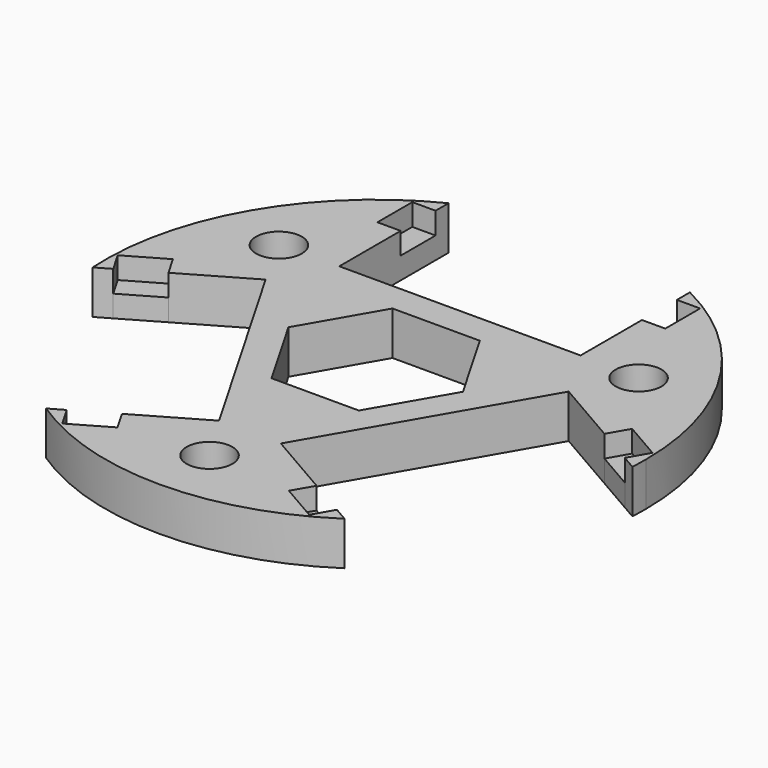
from build123d import *

# Parameters (mm, degrees)
F1_DEPTH = 3.81
F0_W     = 2.032
F0_H     = 3.81
F2_DEPTH = 1.905
F3_D     = 4


with BuildPart() as f1:
    # F0 (on Top) → F1 (new body)
    with BuildSketch(Plane.XY):
        with BuildLine():
            ThreePointArc((23.2712226898, 27.3948570229), (23.3042181614, 28.1150551719), (23.315220068, 28.8359248085))
            ThreePointArc((23.315220068, 28.8359248085), (19.7805094073, 41.2657152733), (10.234220068, 49.9756079424))
            Line((10.234220068, 49.9756079424), (10.234220068, 48.5526951571))
            Line((10.234220068, 48.5526951571), (12.266220068, 48.5526951571))
            Line((12.266220068, 48.5526951571), (12.266220068, 44.7426951571))
            Line((12.266220068, 44.7426951571), (10.234220068, 44.7426951571))
            Line((10.234220068, 44.7426951571), (10.234220068, 38.0376079424))
            Line((10.234220068, 38.0376079424), (-10.847779932, 38.0376079424))
            Line((-10.847779932, 38.0376079424), (-10.847779932, 44.7426951571))
            Line((-10.847779932, 44.7426951571), (-12.879779932, 44.7426951571))
            Line((-12.879779932, 44.7426951571), (-12.879779932, 48.5526951571))
            Line((-12.879779932, 48.5526951571), (-10.847779932, 48.5526951571))
            Line((-10.847779932, 48.5526951571), (-10.847779932, 49.9756079424))
            ThreePointArc((-10.847779932, 49.9756079424), (-20.7640320202, 40.6469248085), (-23.8847825539, 27.3948570229))
            Line((-23.8847825539, 27.3948570229), (-22.6525039345, 28.1063134155))
            Line((-22.6525039345, 28.1063134155), (-23.6685039345, 29.866077036))
            Line((-23.6685039345, 29.866077036), (-20.3689471461, 31.771077036))
            Line((-20.3689471461, 31.771077036), (-19.3529471461, 30.0113134155))
            Line((-19.3529471461, 30.0113134155), (-13.5461712835, 33.3638570229))
            Line((-13.5461712835, 33.3638570229), (-3.0051712835, 15.1063094603))
            Line((-3.0051712835, 15.1063094603), (-8.8119471461, 11.7537658529))
            Line((-8.8119471461, 11.7537658529), (-7.7959471461, 9.9940022324))
            Line((-7.7959471461, 9.9940022324), (-11.0955039345, 8.0890022324))
            Line((-11.0955039345, 8.0890022324), (-12.1115039345, 9.8487658529))
            Line((-12.1115039345, 9.8487658529), (-13.3437825539, 9.1373094603))
            ThreePointArc((-13.3437825539, 9.1373094603), (-0.306779932, 5.2139248085), (12.7302226898, 9.1373094603))
            Line((12.7302226898, 9.1373094603), (11.4979440704, 9.8487658529))
            Line((11.4979440704, 9.8487658529), (10.4819440704, 8.0890022324))
            Line((10.4819440704, 8.0890022324), (7.182387282, 9.9940022324))
            Line((7.182387282, 9.9940022324), (8.198387282, 11.7537658529))
            Line((8.198387282, 11.7537658529), (2.3916114195, 15.1063094603))
            Line((2.3916114195, 15.1063094603), (12.9326114195, 33.3638570229))
            Line((12.9326114195, 33.3638570229), (18.739387282, 30.0113134155))
            Line((18.739387282, 30.0113134155), (19.755387282, 31.771077036))
            Line((19.755387282, 31.771077036), (23.0549440704, 29.866077036))
            Line((23.0549440704, 29.866077036), (22.0389440704, 28.1063134155))
            Line((22.0389440704, 28.1063134155), (23.2712226898, 27.3948570229))
        make_face()
        Polygon((-7.9324222875, 28.8359248085), (-4.1196011098, 35.4399248085), (3.5060412457, 35.4399248085), (7.3188624234, 28.8359248085), (3.5060412457, 22.2319248085), (-4.1196011098, 22.2319248085), align=None, mode=Mode.SUBTRACT)
    extrude(amount=F1_DEPTH)

    # F0 (on Top) → F2 (join)
    with BuildSketch(Plane.XY):
        with BuildLine():
            ThreePointArc((23.2712226898, 27.3948570229), (23.3042181614, 28.1150551719), (23.315220068, 28.8359248085))
            ThreePointArc((23.315220068, 28.8359248085), (19.7805094073, 41.2657152733), (10.234220068, 49.9756079424))
            Line((10.234220068, 49.9756079424), (10.234220068, 48.5526951571))
            Line((10.234220068, 48.5526951571), (12.266220068, 48.5526951571))
            Line((12.266220068, 48.5526951571), (12.266220068, 44.7426951571))
            Line((12.266220068, 44.7426951571), (10.234220068, 44.7426951571))
            Line((10.234220068, 44.7426951571), (10.234220068, 38.0376079424))
            Line((10.234220068, 38.0376079424), (-10.847779932, 38.0376079424))
            Line((-10.847779932, 38.0376079424), (-10.847779932, 44.7426951571))
            Line((-10.847779932, 44.7426951571), (-12.879779932, 44.7426951571))
            Line((-12.879779932, 44.7426951571), (-12.879779932, 48.5526951571))
            Line((-12.879779932, 48.5526951571), (-10.847779932, 48.5526951571))
            Line((-10.847779932, 48.5526951571), (-10.847779932, 49.9756079424))
            ThreePointArc((-10.847779932, 49.9756079424), (-20.7640320202, 40.6469248085), (-23.8847825539, 27.3948570229))
            Line((-23.8847825539, 27.3948570229), (-22.6525039345, 28.1063134155))
            Line((-22.6525039345, 28.1063134155), (-23.6685039345, 29.866077036))
            Line((-23.6685039345, 29.866077036), (-20.3689471461, 31.771077036))
            Line((-20.3689471461, 31.771077036), (-19.3529471461, 30.0113134155))
            Line((-19.3529471461, 30.0113134155), (-13.5461712835, 33.3638570229))
            Line((-13.5461712835, 33.3638570229), (-3.0051712835, 15.1063094603))
            Line((-3.0051712835, 15.1063094603), (-8.8119471461, 11.7537658529))
            Line((-8.8119471461, 11.7537658529), (-7.7959471461, 9.9940022324))
            Line((-7.7959471461, 9.9940022324), (-11.0955039345, 8.0890022324))
            Line((-11.0955039345, 8.0890022324), (-12.1115039345, 9.8487658529))
            Line((-12.1115039345, 9.8487658529), (-13.3437825539, 9.1373094603))
            ThreePointArc((-13.3437825539, 9.1373094603), (-0.306779932, 5.2139248085), (12.7302226898, 9.1373094603))
            Line((12.7302226898, 9.1373094603), (11.4979440704, 9.8487658529))
            Line((11.4979440704, 9.8487658529), (10.4819440704, 8.0890022324))
            Line((10.4819440704, 8.0890022324), (7.182387282, 9.9940022324))
            Line((7.182387282, 9.9940022324), (8.198387282, 11.7537658529))
            Line((8.198387282, 11.7537658529), (2.3916114195, 15.1063094603))
            Line((2.3916114195, 15.1063094603), (12.9326114195, 33.3638570229))
            Line((12.9326114195, 33.3638570229), (18.739387282, 30.0113134155))
            Line((18.739387282, 30.0113134155), (19.755387282, 31.771077036))
            Line((19.755387282, 31.771077036), (23.0549440704, 29.866077036))
            Line((23.0549440704, 29.866077036), (22.0389440704, 28.1063134155))
            Line((22.0389440704, 28.1063134155), (23.2712226898, 27.3948570229))
        make_face()
        Polygon((-7.9324222875, 28.8359248085), (-4.1196011098, 35.4399248085), (3.5060412457, 35.4399248085), (7.3188624234, 28.8359248085), (3.5060412457, 22.2319248085), (-4.1196011098, 22.2319248085), align=None, mode=Mode.SUBTRACT)
        with Locations((-11.863779932, 46.6476951571)):
            Rectangle(F0_W, F0_H)
        with Locations((11.250220068, 46.6476951571)):
            Rectangle(F0_W, F0_H)
        Polygon((18.739387282, 30.0113134155), (22.0389440704, 28.1063134155), (23.0549440704, 29.866077036), (19.755387282, 31.771077036), align=None)
        Polygon((10.4819440704, 8.0890022324), (11.4979440704, 9.8487658529), (8.198387282, 11.7537658529), (7.182387282, 9.9940022324), align=None)
        Polygon((-8.8119471461, 11.7537658529), (-12.1115039345, 9.8487658529), (-11.0955039345, 8.0890022324), (-7.7959471461, 9.9940022324), align=None)
        Polygon((-23.6685039345, 29.866077036), (-22.6525039345, 28.1063134155), (-19.3529471461, 30.0113134155), (-20.3689471461, 31.771077036), align=None)
    extrude(amount=F2_DEPTH)

    # F3 (through all)
    with Locations(Plane(origin=(0, 0, 0), x_dir=(1, 0, 0), z_dir=(0, 0, -1))):
        with Locations((-16.0198342927, -37.9078609734), (15.4062744286, -37.9078609734), (-0.306779932, -10.6920524787)):
            Hole(F3_D / 2)


solid = f1.part
